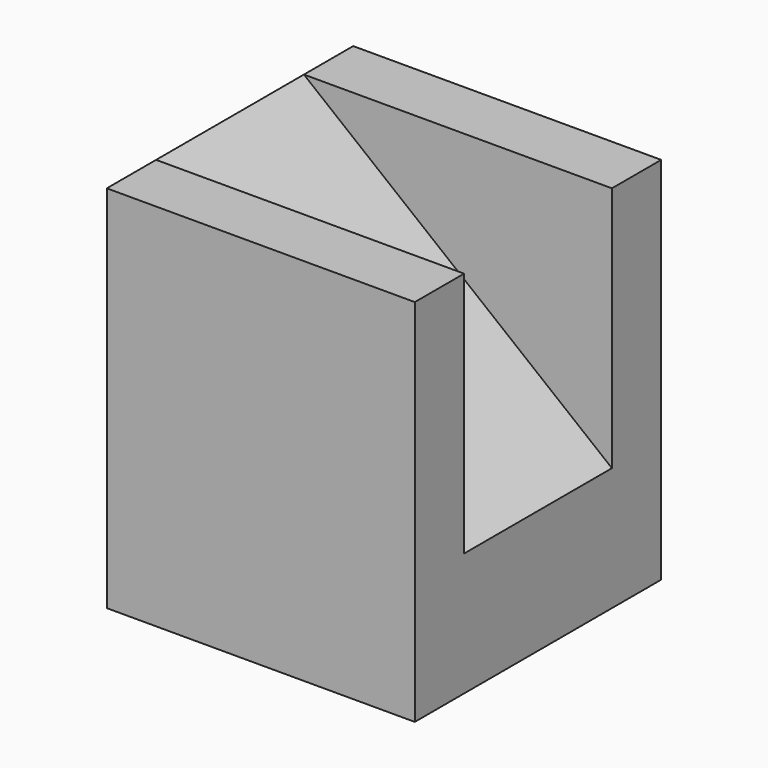
from build123d import *

# Parameters (mm, degrees)
F1_DEPTH = 50
F3_DEPTH = 40


with BuildPart() as f1:
    # F0 (on Right) → F1 (new body)
    with BuildSketch(Plane.YZ):
        Polygon((0, 60), (0, 0), (50, 0), (50, 60), (40, 60), (40, 20), (10, 20), (10, 60), align=None)
    extrude(amount=F1_DEPTH)

    # F2 (on face) → F3 (join)
    with BuildSketch(Plane.XZ):
        Polygon((50, 20), (0, 60), (0, 20), align=None)
    extrude(amount=-F3_DEPTH)


solid = f1.part
